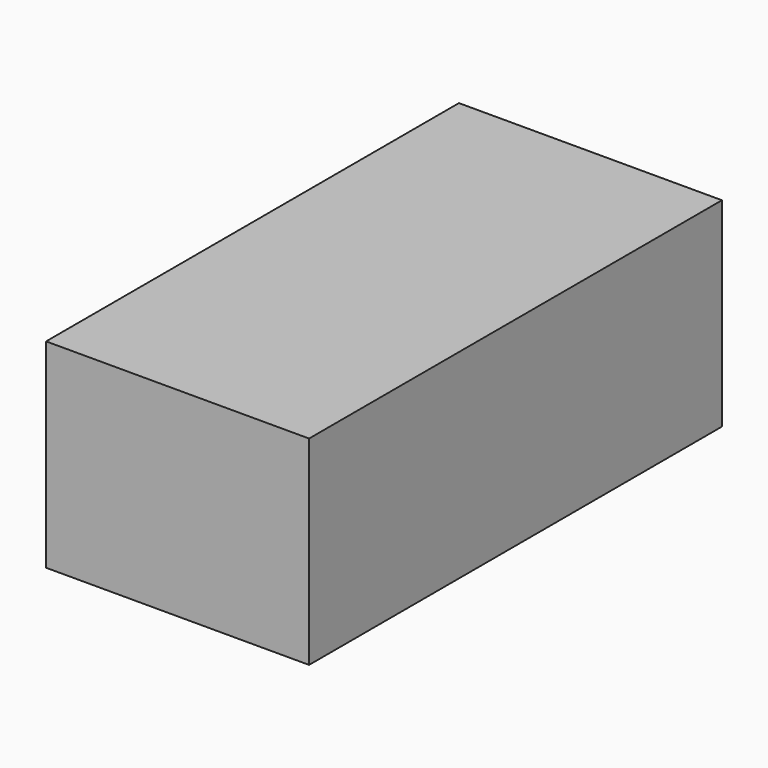
from build123d import *

# Parameters (mm, degrees)
F1_DEPTH  = 76.2
F1_FACE_W = 38.835078
F1_FACE_H = 29.42971
F2_DEPTH  = 12.7


with BuildPart() as f1:
    # F0 (on Front) → F1 (new body)
    with BuildSketch(Plane.XZ):
        Polygon((-19.417539, -14.714855), (19.417539, -14.714855), (19.417539, 14.714855), (0, 14.714855), (-19.417539, 14.714855), align=None)
    extrude(amount=F1_DEPTH)

    # F1_face (on face) → F2 (join)
    with BuildSketch(Plane.XZ.offset(76.2)):
        Rectangle(F1_FACE_W, F1_FACE_H)
    extrude(amount=-F2_DEPTH)


solid = f1.part
